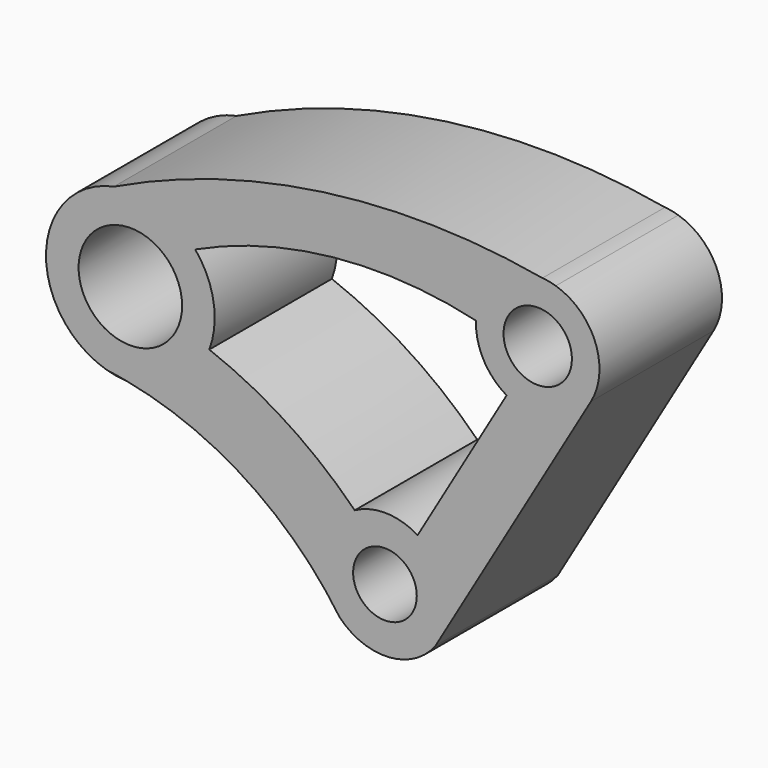
from build123d import *

# Parameters (mm, degrees)
F0_R     = 5.194766
F0_R_2   = 8.44897
F0_R_3   = 5.580151
F1_DEPTH = 25


with BuildPart() as f1:
    # F0 (on Front) → F1 (new body)
    with BuildSketch(Plane.XZ):
        with BuildLine():
            ThreePointArc((-42.153431, 15.49969), (-22.537107, 7.573578), (-7.372486, -7.17965))
            ThreePointArc((-7.372486, -7.17965), (0.675671, -10.268612), (8.249685, -6.151716))
            Line((8.249685, -6.151716), (33.641666, 37.229096))
            ThreePointArc((33.641666, 37.229096), (34.332195, 45.988125), (27.889637, 51.962307))
            ThreePointArc((27.889637, 51.962307), (26.800193, 52.173359), (25.708755, 52.373848))
            ThreePointArc((25.708755, 52.373848), (-10.031283, 53.094379), (-44.25329, 42.76366))
            ThreePointArc((-44.25329, 42.76366), (-44.294203, 42.743895), (-44.335109, 42.724113))
            ThreePointArc((-44.335109, 42.724113), (-55.303805, 29.696455), (-45.187778, 15.996156))
            ThreePointArc((-45.187778, 15.996156), (-43.746778, 15.782133), (-42.311961, 15.529965))
            ThreePointArc((-42.311961, 15.529965), (-42.232685, 15.514886), (-42.153431, 15.49969))
        make_face()
        Circle(F0_R, mode=Mode.SUBTRACT)
        with Locations((-41.56223, 29.258074)):
            Circle(F0_R_2, mode=Mode.SUBTRACT)
        with BuildLine():
            Line((19.861759, 33.613489), (5.336992, 8.798718))
            ThreePointArc((5.336992, 8.798718), (0.233138, 10.288176), (-4.932946, 9.031443))
            ThreePointArc((-4.932946, 9.031443), (-15.984396, 17.984335), (-28.67212, 24.411659))
            ThreePointArc((-28.67212, 24.411659), (-27.982255, 31.544326), (-30.969534, 38.057929))
            ThreePointArc((-30.969534, 38.057929), (-8.443879, 44.251791), (14.867818, 42.724113))
            ThreePointArc((14.867818, 42.724113), (16.100782, 37.475942), (19.861759, 33.613489))
        make_face(mode=Mode.SUBTRACT)
        with Locations((24.941154, 42.321745)):
            Circle(F0_R_3, mode=Mode.SUBTRACT)
        with BuildLine():
            ThreePointArc((-44.25329, 42.76366), (-55.292646, 28.200564), (-42.153431, 15.49969))
            ThreePointArc((-42.153431, 15.49969), (-42.232685, 15.514886), (-42.311961, 15.529965))
            ThreePointArc((-42.311961, 15.529965), (-43.762253, 15.686672), (-45.187778, 15.996156))
            ThreePointArc((-45.187778, 15.996156), (-55.303805, 29.696455), (-44.335109, 42.724113))
            ThreePointArc((-44.335109, 42.724113), (-44.294203, 42.743895), (-44.25329, 42.76366))
        make_face()
        with BuildLine():
            ThreePointArc((25.708755, 52.373848), (26.800193, 52.173359), (27.889637, 51.962307))
            ThreePointArc((27.889637, 51.962307), (26.810555, 52.228274), (25.708755, 52.373848))
        make_face()
    extrude(amount=F1_DEPTH)


solid = f1.part
